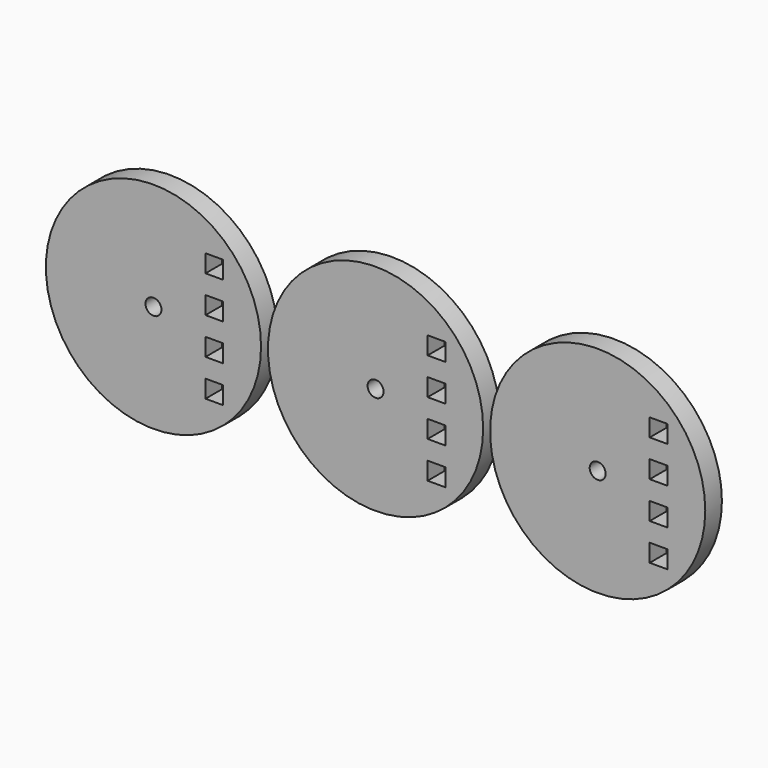
from build123d import *

# Parameters (mm, degrees)
F0_R     = 31
F0_W     = 5.1
F0_H     = 5.1
F0_R_2   = 2.3
F1_DEPTH = 6


with BuildPart() as f1:
    # F0 (on Front) → F1 (new body)
    with BuildSketch(Plane.XZ):
        Circle(F0_R)
        with Locations((17.55, -15.9)):
            Rectangle(F0_W, F0_H, mode=Mode.SUBTRACT)
        with Locations((17.55, -5.3)):
            Rectangle(F0_W, F0_H, mode=Mode.SUBTRACT)
        Circle(F0_R_2, mode=Mode.SUBTRACT)
        with Locations((17.55, 5.3)):
            Rectangle(F0_W, F0_H, mode=Mode.SUBTRACT)
        with Locations((17.55, 15.9)):
            Rectangle(F0_W, F0_H, mode=Mode.SUBTRACT)
        with Locations((64, 0)):
            Circle(F0_R)
        with Locations((81.55, -15.9)):
            Rectangle(F0_W, F0_H, mode=Mode.SUBTRACT)
        with Locations((81.55, -5.3)):
            Rectangle(F0_W, F0_H, mode=Mode.SUBTRACT)
        with Locations((64, 0)):
            Circle(F0_R_2, mode=Mode.SUBTRACT)
        with Locations((81.55, 5.3)):
            Rectangle(F0_W, F0_H, mode=Mode.SUBTRACT)
        with Locations((81.55, 15.9)):
            Rectangle(F0_W, F0_H, mode=Mode.SUBTRACT)
        with Locations((128, 0)):
            Circle(F0_R)
        with Locations((145.55, -15.9)):
            Rectangle(F0_W, F0_H, mode=Mode.SUBTRACT)
        with Locations((145.55, -5.3)):
            Rectangle(F0_W, F0_H, mode=Mode.SUBTRACT)
        with Locations((128, 0)):
            Circle(F0_R_2, mode=Mode.SUBTRACT)
        with Locations((145.55, 5.3)):
            Rectangle(F0_W, F0_H, mode=Mode.SUBTRACT)
        with Locations((145.55, 15.9)):
            Rectangle(F0_W, F0_H, mode=Mode.SUBTRACT)
    extrude(amount=F1_DEPTH)


solid = f1.part
